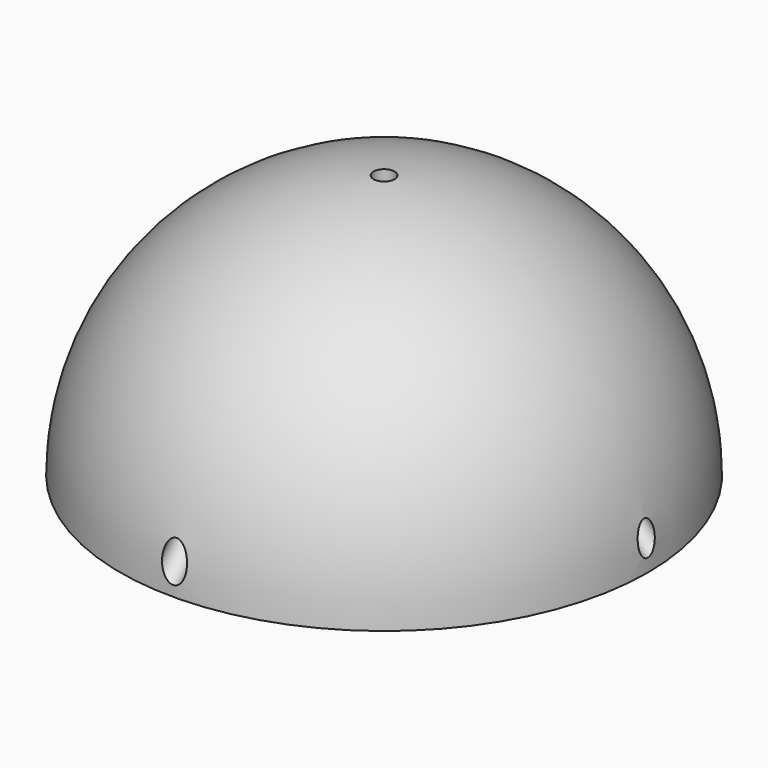
from build123d import *

# Parameters (mm, degrees)
F2_R      = 5.08
F4_R      = 1.6129
F5_DEPTH  = 14.8140581756
F3_R      = 1.5875
F6_DEPTH  = 7.62
F7_R      = 38.1
F7_R_2    = 35.56
F8_DEPTH  = 2.54
F12_D     = 3.81
F12_DEPTH = 33.5298411305
F15_D     = 3.2258
F15_DEPTH = 33.5298411359
F18_D     = 3.2258
F18_DEPTH = 33.5298411359
F21_D     = 3.2258
F21_DEPTH = 33.5298411359


with BuildPart() as f1:
    # F0 (on Front) → F1 (revolve)
    with BuildSketch(Plane.XZ):
        with BuildLine():
            Line((33.02, 0), (40.64, 0))
            ThreePointArc((40.64, 0), (28.7368195874, 28.7368195874), (0, 40.64))
            Line((0, 40.64), (0, 25.8269418244))
            Line((0, 25.8269418244), (20.574, 25.8269418244))
            ThreePointArc((20.574, 25.8269418244), (29.7462088341, 14.3346942765), (33.02, 0))
        make_face()
    revolve(axis=Axis((0, 0, 33.2334709122), (0, 0, 1)))

    # F2
    f2_edges = [f1.edges().sort_by_distance(p)[0] for p in [
        (-20.574, 0, 25.826942),
    ]]
    fillet(f2_edges, radius=F2_R)

    # F4 (on face) → F5 (cut, through all)
    with BuildSketch(Plane(origin=(0, 0, 25.8269418244), x_dir=(1, 0, 0), z_dir=(0, 0, -1))):
        Circle(F4_R)
    extrude(amount=-F5_DEPTH, mode=Mode.SUBTRACT)

    # F3 (on face) → F6 (cut)
    with BuildSketch(Plane(origin=(0, 0, 25.8269418244), x_dir=(1, 0, 0), z_dir=(0, 0, -1))):
        with Locations((0, 12.8956477899)):
            Circle(F3_R)
        with Locations((-12.8956477899, 0)):
            Circle(F3_R)
        with Locations((0, -12.8956477899)):
            Circle(F3_R)
        with Locations((12.8956477899, 0)):
            Circle(F3_R)
    extrude(amount=-F6_DEPTH, mode=Mode.SUBTRACT)

    # F7 (on face) → F8 (cut)
    with BuildSketch(Plane(origin=(0, 0, 0), x_dir=(1, 0, 0), z_dir=(0, 0, -1))):
        Circle(F7_R)
        Circle(F7_R_2, mode=Mode.SUBTRACT)
    extrude(amount=-F8_DEPTH, mode=Mode.SUBTRACT)

    # F12 (through all, one way)
    with BuildSketch(Plane(origin=(0, 3.3884709122, 3.3884709122), x_dir=(1, 0, 0), z_dir=(0, 0.7071067812, 0.7071067812))):
        with Locations((0, -31.7502431571)):
            Circle(F12_D / 2)
    extrude(amount=-F12_DEPTH, mode=Mode.SUBTRACT)

    # F15 (through all, one way)
    with BuildSketch(Plane(origin=(0, -3.3884709122, 3.3884709122), x_dir=(1, 0, 0), z_dir=(0, -0.7071067812, 0.7071067812))):
        with Locations((0, 31.7335650325)):
            Circle(F15_D / 2)
    extrude(amount=-F15_DEPTH, mode=Mode.SUBTRACT)

    # F18 (through all, one way)
    with BuildSketch(Plane(origin=(3.3884709122, 0, 3.3884709122), x_dir=(0.7071067812, 0, -0.7071067812), z_dir=(0.7071067812, 0, 0.7071067812))):
        with Locations((-31.7275524139, 0)):
            Circle(F18_D / 2)
    extrude(amount=-F18_DEPTH, mode=Mode.SUBTRACT)

    # F21 (through all, one way)
    with BuildSketch(Plane(origin=(-3.3884709122, 0, 3.3884709122), x_dir=(0, -1, 0), z_dir=(-0.7071067812, 0, 0.7071067812))):
        with Locations((0, 31.7183621228)):
            Circle(F21_D / 2)
    extrude(amount=-F21_DEPTH, mode=Mode.SUBTRACT)


solid = f1.part
